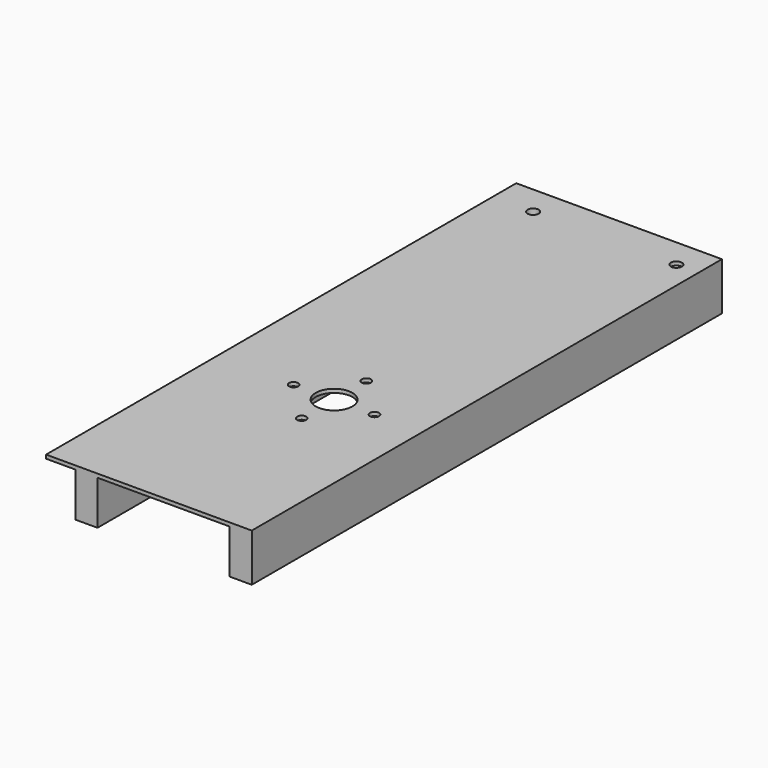
from build123d import *

# Parameters (mm, degrees)
F1_DEPTH = 508
F3_D     = 31.75
F5_D     = 7.9375
F7_D     = 9.525


with BuildPart() as f1:
    # F0 (on Front) → F1 (new body)
    with BuildSketch(Plane.XZ):
        Polygon((0, 3.175), (0, 0), (25.4, 0), (25.4, -38.1), (44.45, -38.1), (44.45, 0), (158.75, 0), (158.75, -38.1), (177.8, -38.1), (177.8, 0), (177.8, 3.175), align=None)
    extrude(amount=F1_DEPTH)

    # F3 (through all)
    with Locations(Plane.XY.offset(3.175)):
        with Locations((101.6, -323.85)):
            Hole(F3_D / 2)

    # F5 (through all)
    with Locations(Plane.XY.offset(3.175)):
        with Locations((101.6, -288.925), (136.525, -323.85), (101.6, -358.775), (66.675, -323.85)):
            Hole(F5_D / 2)

    # F7 (through all)
    with Locations(Plane.XY.offset(3.175)):
        with Locations((34.925, -25.4), (158.75, -25.4)):
            Hole(F7_D / 2)


solid = f1.part
